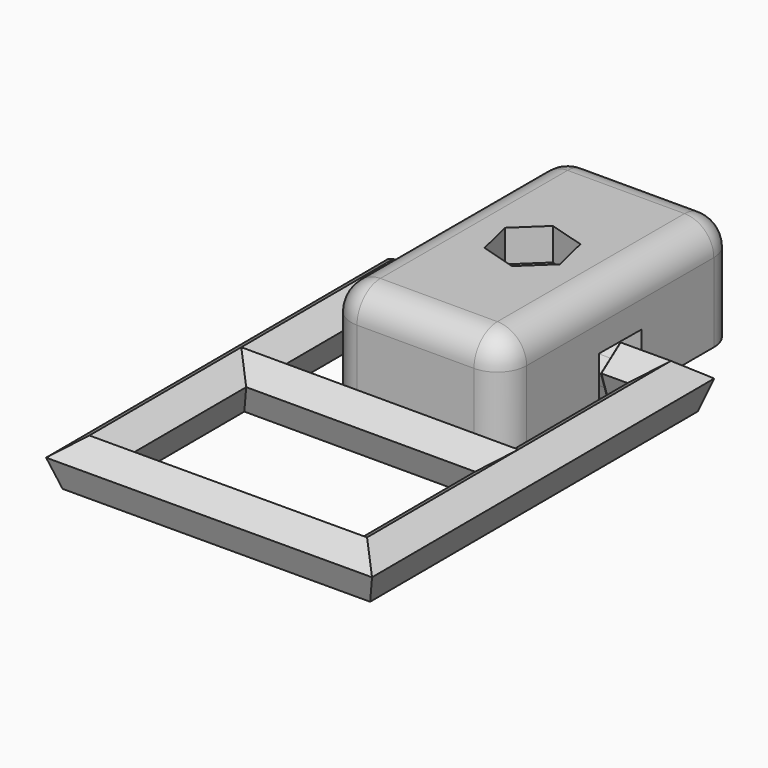
from build123d import *

# Parameters (mm, degrees)
F0_W           = 30
F0_H           = 50
F1_DEPTH       = 18.5
F2_R           = 5
F3_R           = 5
F5_DEPTH       = 5.5
F12_DEPTH      = 23.6822730496
F12_DEPTH_BACK = 23.6818105915
F13_R          = 3.5
F14_DEPTH      = 25
F16_DEPTH      = 30
F17_W          = 9.563500993
F17_H          = 10.9478700906
F18_DEPTH      = 8.5


with BuildPart() as f1:
    # F0 (on Top) → F1 (new body)
    with BuildSketch(Plane.XY):
        Rectangle(F0_W, F0_H)
        Rectangle(F0_W, F0_H)
    extrude(amount=F1_DEPTH)

    # F2
    f2_edges = [f1.edges().sort_by_distance(p)[0] for p in [
        (15, -25, 9.25),
        (-15, -25, 9.25),
        (-15, 25, 9.25),
        (15, 25, 9.25),
    ]]
    fillet(f2_edges, radius=F2_R)

    # F3
    f3_edges = [f1.edges().sort_by_distance(p)[0] for p in [
        (13.535534, -23.535534, 18.5),
    ]]
    fillet(f3_edges, radius=F3_R)

    # F4 (on face) → F5 (cut)
    with BuildSketch(Plane.XY.offset(18.5)):
        Polygon((4.6614175494, 4.418868041), (-1.4961432048, 6.2463400359), (-6.1575607542, 1.8274719949), (-4.6614175494, -4.418868041), (1.4961432048, -6.2463400359), (6.1575607542, -1.8274719949), align=None)
    extrude(amount=-F5_DEPTH, mode=Mode.SUBTRACT)

    # F10: sweep along a path in F8
    with BuildLine(Plane.XY.offset(4.5)) as f10_path:
        Line((-23.8112160869, 0), (23.60743863, 0.1480849019))
        Line((23.60743863, 0.1480849019), (23.8112160869, -65.104028894))
        Line((23.8112160869, -65.104028894), (-23.60743863, -65.2521137959))
        Line((-23.60743863, -65.2521137959), (-23.8112160869, 0))
    # F9 (on face) → F10 (sweep)
    with BuildSketch(Plane(origin=(-15, 0, 0), x_dir=(0, -1, 0), z_dir=(-1, 0, 0))):
        Polygon((-2.542898848, 1), (2.542898848, 1), (4.114496766, 5.8368810394), (0, 8.8262379212), (-4.114496766, 5.8368810394), align=None)
    sweep(path=f10_path.line, transition=Transition.RIGHT)

    # F11 (on Right) → F12 (join, two sides)
    with BuildSketch(Plane.YZ) as f12_sk:
        Polygon((-35.168955746, 1), (-30.0831580499, 1), (-28.5115601319, 5.8368810394), (-32.6260568979, 8.8262379212), (-36.740553664, 5.8368810394), align=None)
    extrude(amount=F12_DEPTH)
    extrude(f12_sk.sketch, amount=-F12_DEPTH_BACK)

    # F13 (on face) → F14 (cut)
    with BuildSketch(Plane.XY.offset(18.5)):
        Circle(F13_R)
    extrude(amount=-F14_DEPTH, mode=Mode.SUBTRACT)

    # F15 (on face) → F16 (cut)
    with BuildSketch(Plane(origin=(-15, 0, 0), x_dir=(0, -1, 0), z_dir=(-1, 0, 0))):
        Polygon((-4.516600949, 8.9647028955), (-4.4833300345, 0), (4.4833300345, 0), (4.5168639826, 9.0355761568), align=None)
        Polygon((0, 8.8262379212), (2.0572484125, 7.3315594589), (4.114496766, 5.8368810394), (3.3286978089, 3.4184405255), (2.542898848, 1), (0, 1), (-2.542898848, 1), (-3.328697754, 3.4184403566), (-4.114496766, 5.8368810394), (-2.0572484027, 7.331559466), align=None, mode=Mode.SUBTRACT)
    extrude(amount=-F16_DEPTH, mode=Mode.SUBTRACT)

    # F17 (on face) → F18 (cut)
    with BuildSketch(Plane.XY):
        Rectangle(F17_W, F17_H)
    extrude(amount=F18_DEPTH, mode=Mode.SUBTRACT)


solid = f1.part
